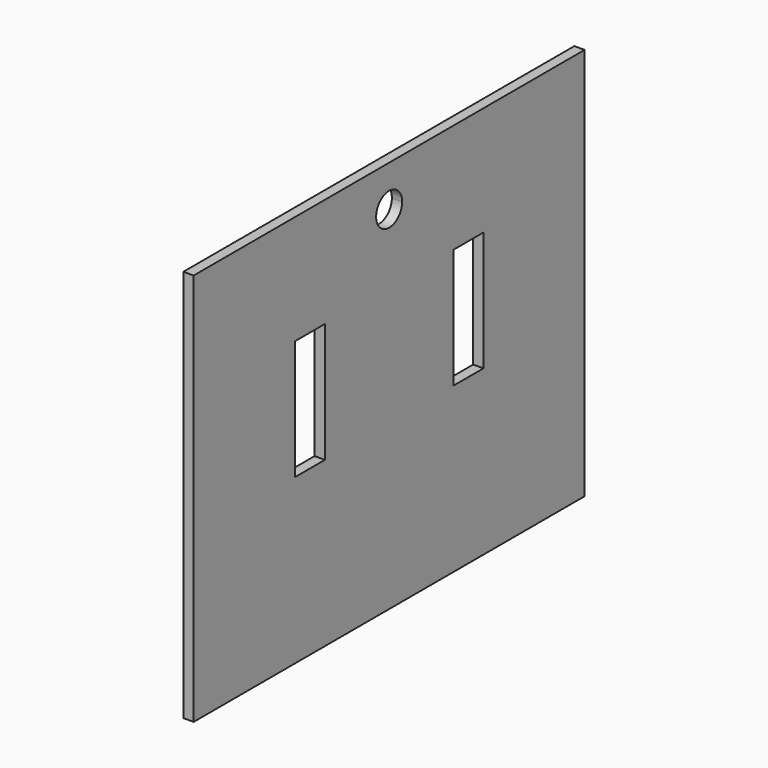
from build123d import *

# Parameters (mm, degrees)
F0_W     = 69.85
F0_H     = 222.25
F1_DEPTH = 19.05


with BuildPart() as f1:
    # F0 (on Right) → F1 (new body)
    with BuildSketch(Plane.YZ):
        Polygon((0, 365.125), (-454.025, 365.125), (-454.025, -365.125), (-149.225, -365.125), (149.225, -365.125), (454.025, -365.125), (454.025, 365.125), align=None)
        with Locations((-184.15, 50.8)):
            Rectangle(F0_W, F0_H, mode=Mode.SUBTRACT)
        with Locations((184.15, 50.8)):
            Rectangle(F0_W, F0_H, mode=Mode.SUBTRACT)
        with BuildLine():
            ThreePointArc((30.226, 288.925), (-21.37301, 267.55199), (0, 319.151))
            ThreePointArc((0, 319.151), (21.37301, 310.29801), (30.226, 288.925))
        make_face(mode=Mode.SUBTRACT)
    extrude(amount=F1_DEPTH)


solid = f1.part
